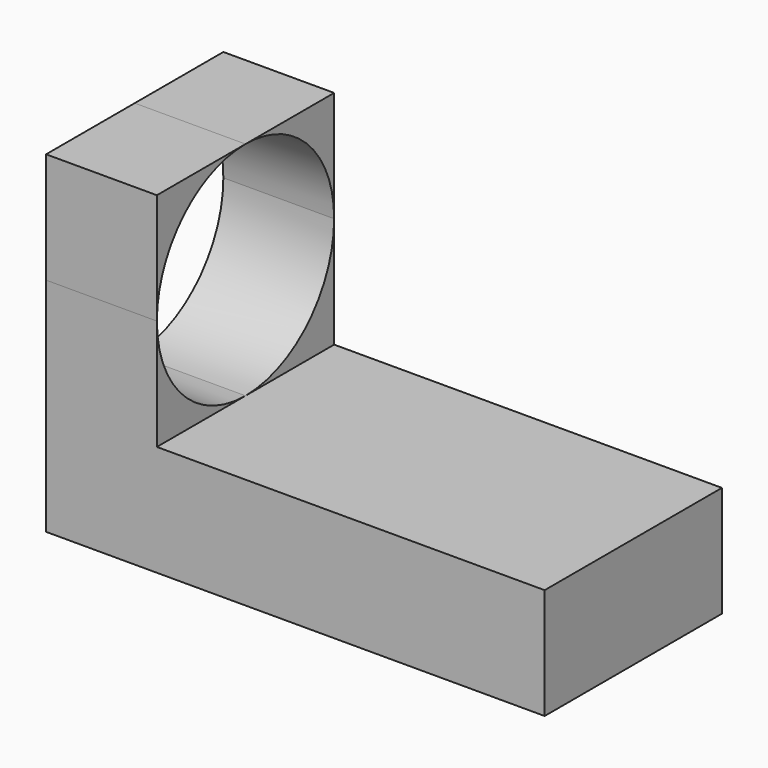
from build123d import *

# Parameters (mm, degrees)
F1_DEPTH = 25.4
F3_DEPTH = 57.151
F4_DEPTH = 25.4


with BuildPart() as f1:
    # F0 (on Front) → F1 (new body)
    with BuildSketch(Plane.XZ):
        Polygon((0, 38.1), (0, 0), (57.15, 0), (57.15, 12.7), (12.7, 12.7), (12.7, 38.1), align=None)
    extrude(amount=F1_DEPTH)

    # F2 (on Right) → F3 (cut, through all)
    with BuildSketch(Plane.YZ):
        with BuildLine():
            ThreePointArc((-5.08, 35.56), (-8.6839073716, 37.4482778852), (-12.7, 38.1))
            Line((-12.7, 38.1), (-12.7, 25.4))
            ThreePointArc((-12.7, 25.4), (-6.35, 28.575), (-5.08, 35.56))
        make_face()
        with BuildLine():
            Line((-12.7, 25.4), (-12.7, 38.1))
            ThreePointArc((-12.7, 38.1), (-16.7160926284, 37.4482778852), (-20.32, 35.56))
            ThreePointArc((-20.32, 35.56), (-19.05, 28.575), (-12.7, 25.4))
        make_face()
    extrude(amount=F3_DEPTH, mode=Mode.SUBTRACT)

    # F2 (on Right) → F4 (cut)
    with BuildSketch(Plane.YZ):
        with BuildLine():
            ThreePointArc((-5.08, 35.56), (-8.6839073716, 37.4482778852), (-12.7, 38.1))
            Line((-12.7, 38.1), (-12.7, 25.4))
            ThreePointArc((-12.7, 25.4), (-6.35, 28.575), (-5.08, 35.56))
        make_face()
        with BuildLine():
            Line((-12.7, 25.4), (-12.7, 38.1))
            ThreePointArc((-12.7, 38.1), (-16.7160926284, 37.4482778852), (-20.32, 35.56))
            ThreePointArc((-20.32, 35.56), (-19.05, 28.575), (-12.7, 25.4))
        make_face()
        with BuildLine():
            Line((0, 25.4), (-12.7, 25.4))
            Line((-12.7, 25.4), (-12.7, 12.7))
            ThreePointArc((-12.7, 12.7), (-3.7197438789, 16.4197438789), (0, 25.4))
        make_face()
        with BuildLine():
            Line((-12.7, 12.7), (-12.7, 25.4))
            Line((-12.7, 25.4), (-25.4, 25.4))
            ThreePointArc((-25.4, 25.4), (-21.6802561211, 16.4197438789), (-12.7, 12.7))
        make_face()
        with BuildLine():
            ThreePointArc((-5.08, 35.56), (-6.35, 28.575), (-12.7, 25.4))
            Line((-12.7, 25.4), (0, 25.4))
            ThreePointArc((0, 25.4), (-1.3407746743, 31.0796126628), (-5.08, 35.56))
        make_face()
        with BuildLine():
            Line((-25.4, 25.4), (-12.7, 25.4))
            ThreePointArc((-12.7, 25.4), (-19.05, 28.575), (-20.32, 35.56))
            ThreePointArc((-20.32, 35.56), (-24.0592253257, 31.0796126628), (-25.4, 25.4))
        make_face()
    extrude(amount=F4_DEPTH, mode=Mode.SUBTRACT)


solid = f1.part
